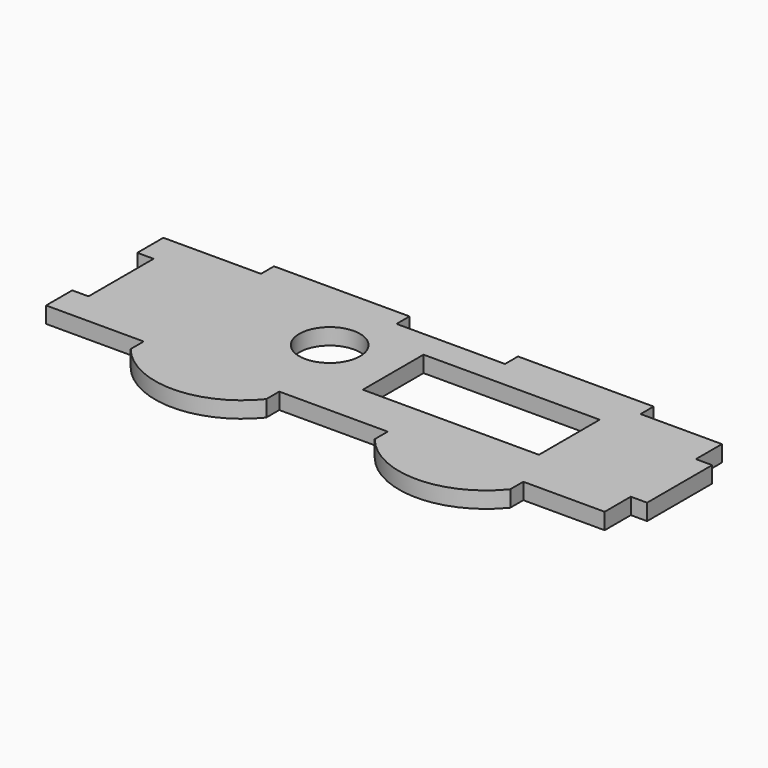
from build123d import *

# Parameters (mm, degrees)
SKETCH_R      = 5.6
SKETCH_W      = 32.48
SKETCH_H      = 14
EXTRUDE_DEPTH = 3


with BuildPart() as part:
    # Sketch → Extrude (new body)
    with BuildSketch(Plane.XY):
        with BuildLine():
            Line((40, -6.37), (40, -9.37))
            ThreePointArc((15, -9.37), (27.5, -15.37), (40, -9.37))
            Line((15, -9.37), (15, -6.37))
            Line((15, -6.37), (0, -6.37))
            Line((-3, -6.37), (0, -6.37))
            Line((-3, -0.34), (-3, -6.37))
            Line((-3, -0.34), (0, -0.34))
            Line((0, 14.66), (0, -0.34))
            Line((0, 14.66), (-3, 14.66))
            Line((-3, 14.66), (-3, 20.66))
            Line((-3, 20.66), (0, 20.66))
            Line((0, 20.66), (15, 20.66))
            Line((15, 23.66), (15, 20.66))
            Line((40, 23.66), (15, 23.66))
            Line((40, 20.66), (40, 23.66))
            Line((40, 20.66), (60, 20.66))
            Line((60, 23.66), (60, 20.66))
            Line((85, 23.66), (60, 23.66))
            Line((85, 20.66), (85, 23.66))
            Line((85, 20.66), (100, 20.66))
            Line((100, 20.66), (100, 14.66))
            Line((100, 14.66), (103, 14.66))
            Line((103, 14.66), (103, -0.34))
            Line((103, -0.34), (100, -0.34))
            Line((100, -0.34), (100, -6.37))
            Line((100, -6.37), (85, -6.37))
            Line((85, -6.37), (85, -9.37))
            ThreePointArc((60, -9.37), (72.5, -15.37), (85, -9.37))
            Line((60, -9.37), (60, -6.37))
            Line((60, -6.37), (40, -6.37))
        make_face()
        with Locations((36.6, 9.5)):
            Circle(SKETCH_R, mode=Mode.SUBTRACT)
        with Locations((65.265, 8.6)):
            Rectangle(SKETCH_W, SKETCH_H, mode=Mode.SUBTRACT)
    extrude(amount=EXTRUDE_DEPTH)


solid = part.part
